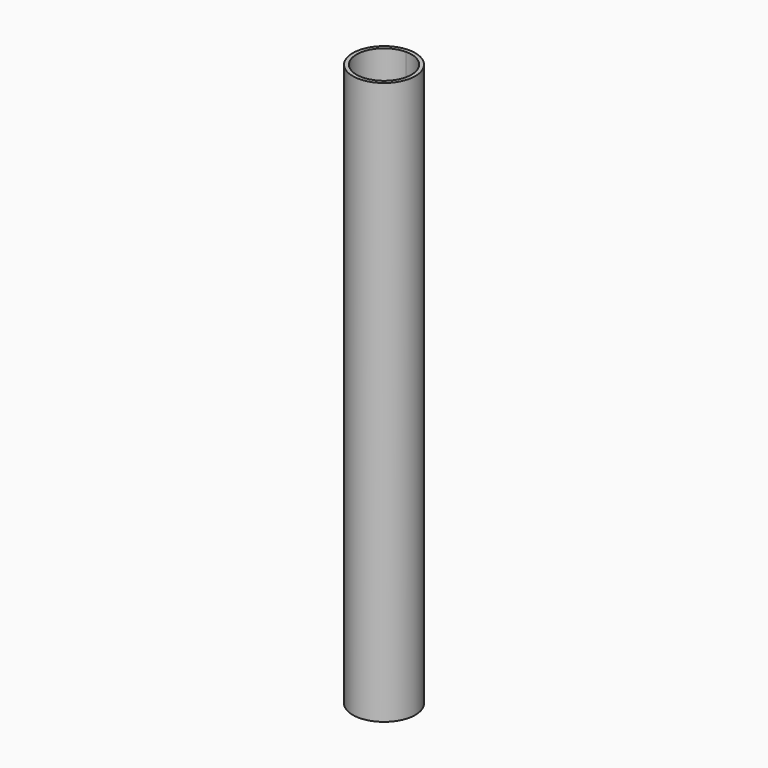
from build123d import *

# Parameters (mm, degrees)
F0_R     = 8.0645
F1_DEPTH = 72.5551
F2_DEPTH = 72.5551
F3_DEPTH = 25.4
F5_DEPTH = 145.1102


with BuildPart() as f1:
    # F0 (on Top) → F1 (new body)
    with BuildSketch(Plane.XY):
        Circle(F0_R)
    extrude(amount=F1_DEPTH)

    # F0 (on Top) → F2 (join)
    with BuildSketch(Plane.XY):
        Circle(F0_R)
    extrude(amount=-F2_DEPTH)

    # F0 (on Top) → F3 (join)
    with BuildSketch(Plane.XY):
        Circle(F0_R)
    extrude(amount=F3_DEPTH)

    # F4 (on face) → F5 (cut)
    with BuildSketch(Plane(origin=(0, 0, -72.5551), x_dir=(1, 0, 0), z_dir=(0, 0, -1))):
        with BuildLine():
            Line((0, -7.0866), (0, 7.0866))
            ThreePointArc((0, 7.0866), (-7.0866, 0), (0, -7.0866))
        make_face()
        with BuildLine():
            ThreePointArc((0, -7.0866), (5.010983, -5.010983), (7.0866, 0))
            ThreePointArc((7.0866, 0), (5.010983, 5.010983), (0, 7.0866))
            Line((0, 7.0866), (0, -7.0866))
        make_face()
    extrude(amount=-F5_DEPTH, mode=Mode.SUBTRACT)


solid = f1.part
